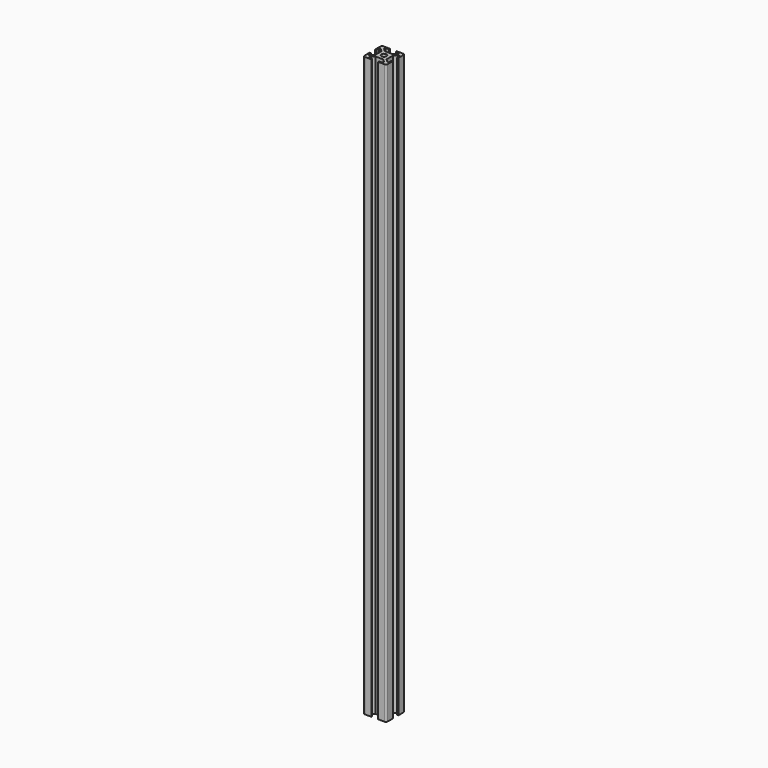
from build123d import *

# Parameters (mm, degrees)
SKETCH_R  = 2.25
PAD_DEPTH = 500
FILLET_R  = 1.5


with BuildPart() as part:
    # Sketch → Pad (new body)
    with BuildSketch(Plane(origin=(0, 0, 0), x_dir=(1, 0, 0), z_dir=(0, 0, -1))):
        Polygon((7, 0), (7, -1), (4, -1), (4, -2.5), (6.499998, -5), (13.500002, -5), (16, -2.5), (16, -1), (13, -1), (13, 0), (20, 0), (20, -7), (19, -7), (19, -4), (17.5, -4), (15.000002, -6.5), (15.000002, -13.500005), (17.5, -16.000005), (19, -16.000005), (19, -13.000005), (20, -13.000005), (20, -20.000005), (13, -20.000005), (13, -19.000005), (16, -19.000005), (16, -17.500005), (13.500002, -15.000005), (6.499998, -15.000005), (4, -17.500005), (4, -19.000005), (7, -19.000005), (7, -20.000005), (0, -20.000005), (0, -13.000005), (1, -13.000005), (1, -16.000005), (2.5, -16.000005), (4.999998, -13.500005), (4.999998, -6.5), (2.5, -4), (1, -4), (1, -7), (0, -7), (0, 0), align=None)
        with Locations((10, -10.000002)):
            Circle(SKETCH_R, mode=Mode.SUBTRACT)
    extrude(amount=PAD_DEPTH)

    # Fillet
    fillet_edges = [part.edges().sort_by_distance(p)[0] for p in [
        (20, 20.000005, -250),
        (20, 0, -250),
        (0, 20.000005, -250),
        (0, 0, -250),
    ]]
    fillet(fillet_edges, radius=FILLET_R)


solid = part.part
